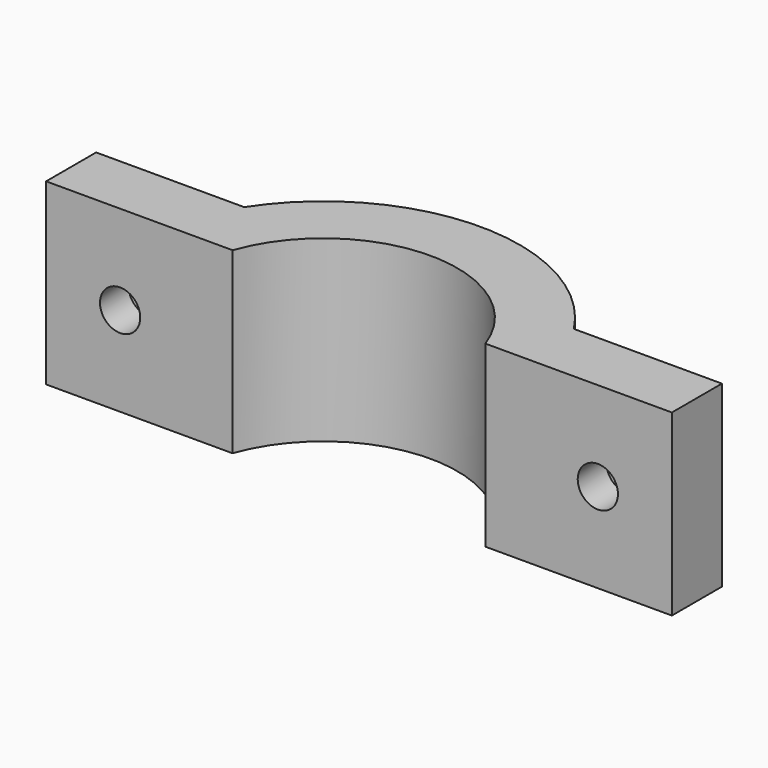
from build123d import *

# Parameters (mm, degrees)
F1_DEPTH = 10
F2_R     = 2.25
F3_DEPTH = 25
F4_R     = 2.25
F5_DEPTH = 3


with BuildPart() as f1:
    # F0 (on Top) → F1 (new body, symmetric)
    with BuildSketch(Plane.XY):
        with BuildLine():
            Line((-35, 7), (-35, 0))
            Line((-35, 0), (-14.142136, 0))
            ThreePointArc((-14.142136, 0), (0, 10), (14.142136, 0))
            Line((14.142136, 0), (35, 0))
            Line((35, 0), (35, 7))
            Line((35, 7), (18.439089, 7))
            ThreePointArc((18.439089, 7), (0, 17), (-18.439089, 7))
            Line((-18.439089, 7), (-35, 7))
        make_face()
    extrude(amount=F1_DEPTH, both=True)

    # F2 (on face) → F3 (cut)
    with BuildSketch(Plane(origin=(0, 7, 0), x_dir=(-1, 0, 0), z_dir=(0, 1, 0))):
        with Locations((-26.719544, 0)):
            Circle(F2_R)
        with Locations((26.719544, 0)):
            Circle(F2_R)
    extrude(amount=-F3_DEPTH, mode=Mode.SUBTRACT)

    # F4 (on face) → F5 (cut)
    with BuildSketch(Plane(origin=(0, 7, 0), x_dir=(-1, 0, 0), z_dir=(0, 1, 0))):
        Polygon((-28.74027, 3.5), (-30.760996, 0), (-28.74027, -3.5), (-24.698819, -3.5), (-22.678093, 0), (-24.698819, 3.5), align=None)
        with Locations((-26.719544, 0)):
            Circle(F4_R, mode=Mode.SUBTRACT)
        Polygon((28.74027, -3.5), (30.760996, 0), (28.74027, 3.5), (24.698819, 3.5), (22.678093, 0), (24.698819, -3.5), align=None)
    extrude(amount=-F5_DEPTH, mode=Mode.SUBTRACT)


solid = f1.part
